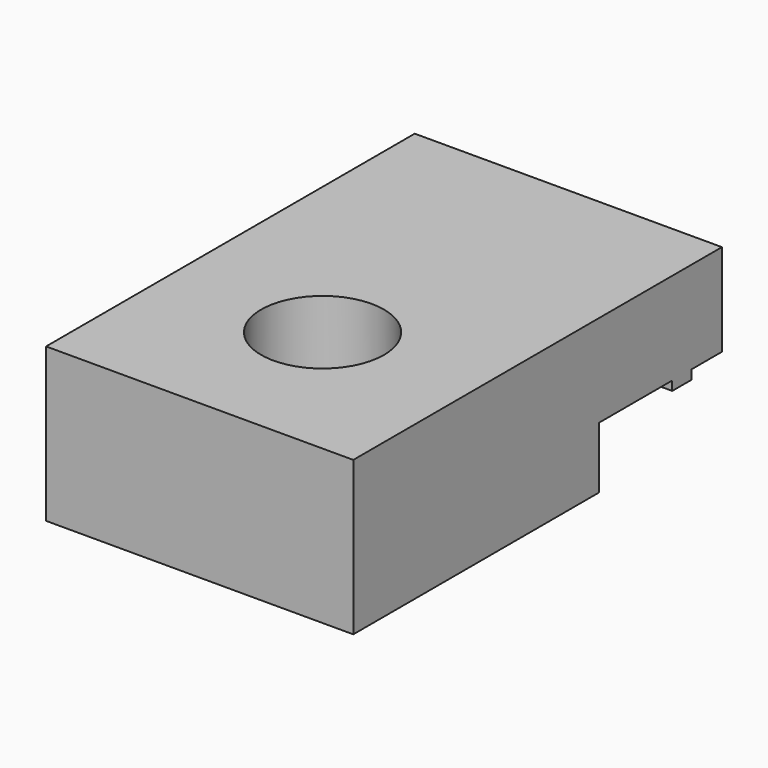
from build123d import *

# Parameters (mm, degrees)
F0_W     = 10
F0_H     = 15
F1_DEPTH = 5
F2_W     = 5
F2_H     = 2
F3_DEPTH = 25
F4_R     = 2
F5_DEPTH = 25
F6_W     = 10
F6_H     = 0.791458
F7_DEPTH = 0.3


with BuildPart() as f1:
    # F0 (on Top) → F1 (new body)
    with BuildSketch(Plane.XY):
        with Locations((5, 7.5)):
            Rectangle(F0_W, F0_H)
    extrude(amount=F1_DEPTH)

    # F2 (on face) → F3 (cut)
    with BuildSketch(Plane.YZ.offset(10)):
        with Locations((12.5, 1)):
            Rectangle(F2_W, F2_H)
    extrude(amount=-F3_DEPTH, mode=Mode.SUBTRACT)

    # F4 (on face) → F5 (cut)
    with BuildSketch(Plane(origin=(0, 0, 0), x_dir=(1, 0, 0), z_dir=(0, 0, -1))):
        with Locations((5, -5)):
            Circle(F4_R)
    extrude(amount=-F5_DEPTH, mode=Mode.SUBTRACT)

    # F6 (on face) → F7 (join)
    with BuildSketch(Plane(origin=(0, 0, 2), x_dir=(1, 0, 0), z_dir=(0, 0, -1))):
        with Locations((5, -13.373503)):
            Rectangle(F6_W, F6_H)
    extrude(amount=F7_DEPTH)


solid = f1.part
